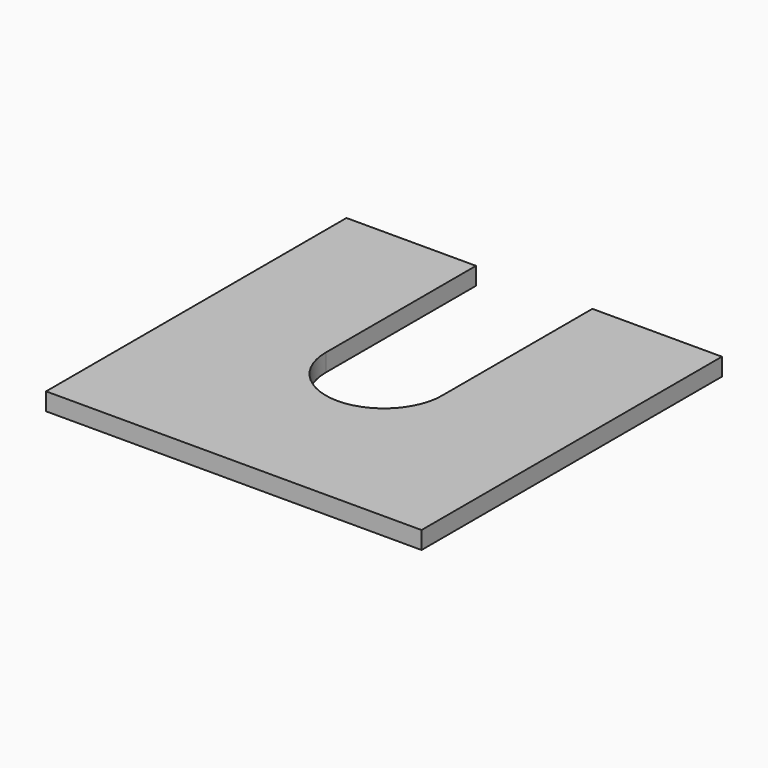
from build123d import *

# Parameters (mm, degrees)
F1_DEPTH = 9.525


with BuildPart() as f1:
    # F0 (on Top) → F1 (new body)
    with BuildSketch(Plane.XY):
        with BuildLine():
            Line((-101.6, 101.6), (-101.6, -101.6))
            Line((-101.6, -101.6), (101.6, -101.6))
            Line((101.6, -101.6), (101.6, 101.6))
            Line((101.6, 101.6), (31.5, 101.6))
            Line((31.5, 101.6), (31.5, 0))
            ThreePointArc((31.5, 0), (0, -31.5), (-31.5, 0))
            Line((-31.5, 0), (-31.5, 101.6))
            Line((-31.5, 101.6), (-101.6, 101.6))
        make_face()
    extrude(amount=F1_DEPTH)


solid = f1.part
